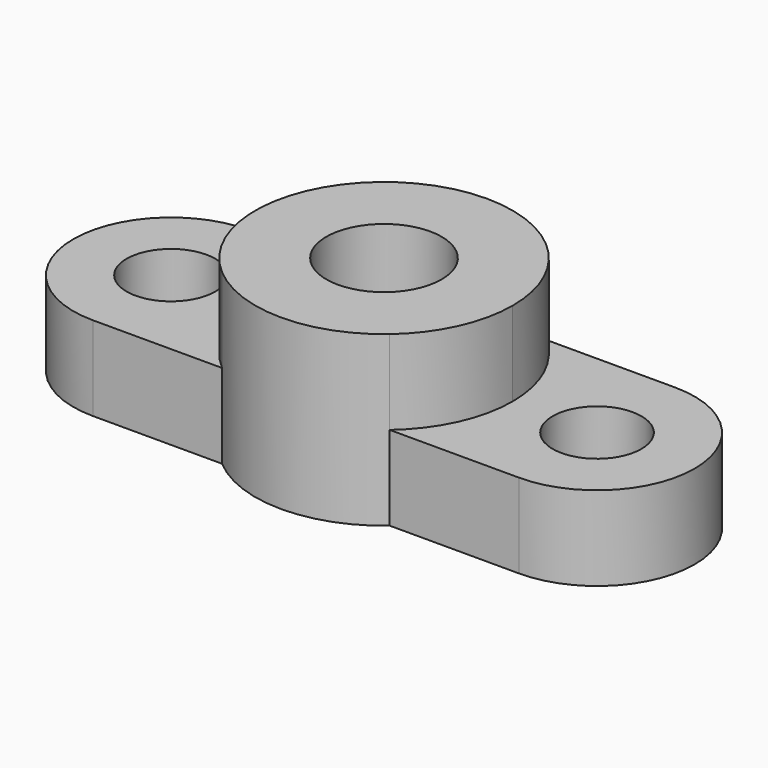
from build123d import *

# Parameters (mm, degrees)
F0_R     = 10
F0_R_2   = 13
F1_DEPTH = 19
F2_DEPTH = 38


with BuildPart() as f1:
    # F0 (on Top) → F1 (new body)
    with BuildSketch(Plane.XY):
        with BuildLine():
            ThreePointArc((-18.894444, -22), (-29, 0), (-18.894444, 22))
            Line((-18.894444, 22), (-48, 22))
            ThreePointArc((-48, 22), (-70, 0), (-48, -22))
            Line((-48, -22), (-18.894444, -22))
        make_face()
        with Locations((-48, 0)):
            Circle(F0_R, mode=Mode.SUBTRACT)
        with BuildLine():
            ThreePointArc((18.894444, 22), (26.352788, 12.104981), (29, 0))
            ThreePointArc((29, 0), (26.352788, -12.104981), (18.894444, -22))
            Line((18.894444, -22), (48, -22))
            ThreePointArc((48, -22), (70, 0), (48, 22))
            Line((48, 22), (18.894444, 22))
        make_face()
        with Locations((48, 0)):
            Circle(F0_R, mode=Mode.SUBTRACT)
        with BuildLine():
            ThreePointArc((18.894444, -22), (26.352788, -12.104981), (29, 0))
            ThreePointArc((29, 0), (26.352788, 12.104981), (18.894444, 22))
            ThreePointArc((18.894444, 22), (0, 29), (-18.894444, 22))
            ThreePointArc((-18.894444, 22), (-29, 0), (-18.894444, -22))
            ThreePointArc((-18.894444, -22), (0, -29), (18.894444, -22))
        make_face()
        Circle(F0_R_2, mode=Mode.SUBTRACT)
    extrude(amount=F1_DEPTH)

    # F0 (on Top) → F2 (join)
    with BuildSketch(Plane.XY):
        with BuildLine():
            ThreePointArc((18.894444, -22), (26.352788, -12.104981), (29, 0))
            ThreePointArc((29, 0), (26.352788, 12.104981), (18.894444, 22))
            ThreePointArc((18.894444, 22), (0, 29), (-18.894444, 22))
            ThreePointArc((-18.894444, 22), (-29, 0), (-18.894444, -22))
            ThreePointArc((-18.894444, -22), (0, -29), (18.894444, -22))
        make_face()
        Circle(F0_R_2, mode=Mode.SUBTRACT)
    extrude(amount=F2_DEPTH)


solid = f1.part
